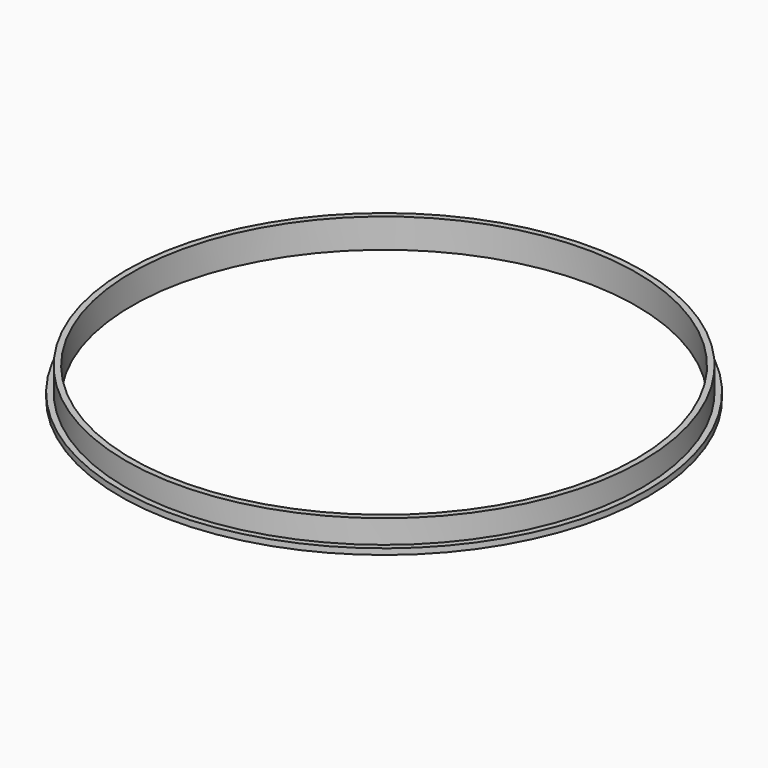
from build123d import *

# Parameters (mm, degrees)
SKETCH_R     = 22.5
PAD_DEPTH    = 0.5
SKETCH001_R  = 22
PAD001_DEPTH = 2
SKETCH002_R  = 21.5
POCKET_DEPTH = 5


with BuildPart() as part:
    # Sketch → Pad (new body)
    with BuildSketch(Plane.XY):
        Circle(SKETCH_R)
    extrude(amount=PAD_DEPTH)

    # Sketch001 (on Face3 of Pad) → Pad001 (join)
    with BuildSketch(Plane.XY.offset(0.5)):
        Circle(SKETCH001_R)
    extrude(amount=PAD001_DEPTH)

    # Sketch002 (on Face5 of Pad001) → Pocket (cut)
    with BuildSketch(Plane.XY.offset(2.5)):
        Circle(SKETCH002_R)
    extrude(amount=-POCKET_DEPTH, mode=Mode.SUBTRACT)


solid = part.part
